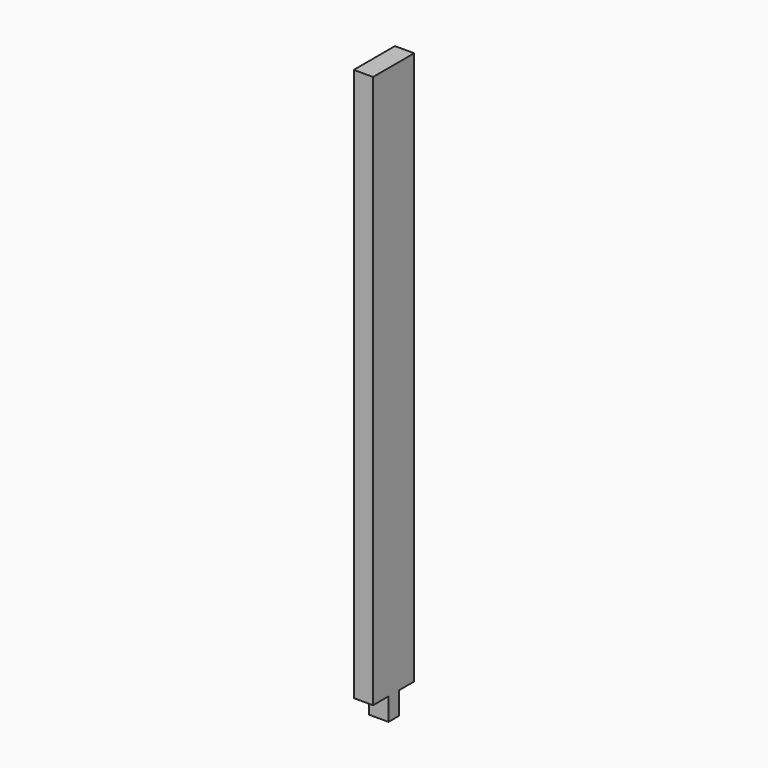
from build123d import *

# Parameters (mm, degrees)
F0_W     = 50.8
F0_H     = 88.9
F1_DEPTH = 76.2


with BuildPart() as f1:
    # F0 (on Right) → F1 (new body)
    with BuildSketch(Plane.YZ):
        Polygon((101.6, -1092.2), (101.6, 1092.2), (-101.6, 1092.2), (-101.6, -1092.2), (-25.4, -1092.2), (-25.4, -1003.3), (25.4, -1003.3), (25.4, -1092.2), align=None)
        with Locations((0, -1136.65)):
            Rectangle(F0_W, F0_H)
        with Locations((0, -1047.75)):
            Rectangle(F0_W, F0_H)
    extrude(amount=F1_DEPTH)


solid = f1.part
